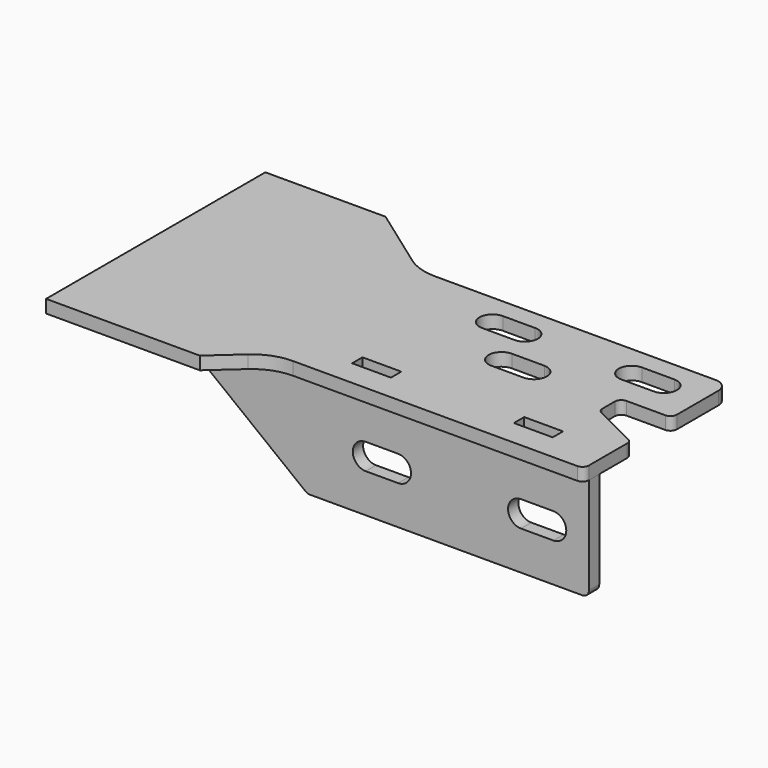
from build123d import *

# Parameters (mm, degrees)
F0_W     = 19.05
F0_H     = 6.35
F1_DEPTH = 6.35
F2_W     = 228.1926768713
F2_H     = 6.35
F3_DEPTH = 50.8
F5_DEPTH = 112.5108414421
F6_R     = 6.35
F7_R     = 3.175
F7_2_R   = 3.175


with BuildPart() as f1:
    # F0 (on Top) → F1 (new body)
    with BuildSketch(Plane.XY):
        with BuildLine():
            Line((76.2, 44.45), (-68.0401977532, 44.45))
            ThreePointArc((-68.0401977532, 44.45), (-75.8089619471, 45.6672312813), (-82.8331290705, 49.2022596142))
            Line((-82.8331290705, 49.2022596142), (-113.5858595371, 71.2348414421))
            Line((-113.5858595371, 71.2348414421), (-172.6087629795, 71.2348414421))
            Line((-172.6087629795, 71.2348414421), (-172.6087629795, -63.2538875401))
            Line((-172.6087629795, -63.2538875401), (-97.1746146679, -63.2538875401))
            Line((-97.1746146679, -63.2538875401), (-83.4364361492, -50.9375152033))
            ThreePointArc((-83.4364361492, -50.9375152033), (-75.5582355761, -46.1272565474), (-66.4812623426, -44.45))
            Line((-66.4812623426, -44.45), (76.2, -44.45))
            Line((76.2, -44.45), (76.2, -15.875))
            Line((76.2, -15.875), (50.8, -3.175))
            Line((50.8, -3.175), (50.8, 9.525))
            Line((50.8, 9.525), (76.2, 9.525))
            Line((76.2, 9.525), (76.2, 44.45))
        make_face()
        with Locations((-38.1, -28.575)):
            Rectangle(F0_W, F0_H, mode=Mode.SUBTRACT)
        with Locations((41.275, -28.575)):
            Rectangle(F0_W, F0_H, mode=Mode.SUBTRACT)
        with BuildLine():
            Line((-4.7625, 12.7), (3.175, 12.7))
            Line((3.175, 12.7), (11.1125, 12.7))
            ThreePointArc((11.1125, 12.7), (17.4625, 6.35), (11.1125, 0))
            Line((11.1125, 0), (3.175, 0))
            Line((3.175, 0), (-4.7625, 0))
            ThreePointArc((-4.7625, 0), (-11.1125, 6.35), (-4.7625, 12.7))
        make_face(mode=Mode.SUBTRACT)
        with BuildLine():
            Line((-26.9875, 34.925), (-19.05, 34.925))
            Line((-19.05, 34.925), (-11.1125, 34.925))
            ThreePointArc((-11.1125, 34.925), (-4.7625, 28.575), (-11.1125, 22.225))
            Line((-11.1125, 22.225), (-19.05, 22.225))
            Line((-19.05, 22.225), (-26.9875, 22.225))
            ThreePointArc((-26.9875, 22.225), (-33.3375, 28.575), (-26.9875, 34.925))
        make_face(mode=Mode.SUBTRACT)
        with BuildLine():
            ThreePointArc((57.15, 34.925), (61.6401280605, 33.0651280605), (63.5, 28.575))
            ThreePointArc((63.5, 28.575), (61.6401280605, 24.0848719395), (57.15, 22.225))
            Line((57.15, 22.225), (41.275, 22.225))
            ThreePointArc((41.275, 22.225), (34.925, 28.575), (41.275, 34.925))
            Line((41.275, 34.925), (57.15, 34.925))
        make_face(mode=Mode.SUBTRACT)
    extrude(amount=F1_DEPTH)

    # F6
    f6_edges = [f1.edges().sort_by_distance(p)[0] for p in [
        (76.2, 44.45, 3.175),
    ]]
    fillet(f6_edges, radius=F6_R)

    # F7
    f7_edges = [f1.edges().sort_by_distance(p)[0] for p in [
        (76.2, 9.525, 3.175),
        (76.2, -15.875, 3.175),
        (50.8, 9.525, 3.175),
        (50.8, -3.175, 3.175),
        (76.2, -44.45, 3.175),
    ]]
    fillet(f7_edges, radius=F7_R)


with BuildPart() as f3:
    # F2 (on face) → F3 (new body)
    with BuildSketch(Plane(origin=(0, 0, 0), x_dir=(1, 0, 0), z_dir=(0, 0, -1))):
        with Locations((-37.8963384356, 38.1)):
            Rectangle(F2_W, F2_H)
    extrude(amount=F3_DEPTH)

    # F4 (on face) → F5 (cut, through all)
    with BuildSketch(Plane.XZ.offset(41.275)):
        with BuildLine():
            ThreePointArc((-33.3375, -19.05), (-39.6875, -25.4), (-33.3375, -31.75))
            Line((-33.3375, -31.75), (-17.4625, -31.75))
            ThreePointArc((-17.4625, -31.75), (-11.1125, -25.4), (-17.4625, -19.05))
            Line((-17.4625, -19.05), (-33.3375, -19.05))
        make_face()
        with BuildLine():
            ThreePointArc((58.7375, -31.75), (65.0875, -25.4), (58.7375, -19.05))
            Line((58.7375, -19.05), (42.8625, -19.05))
            ThreePointArc((42.8625, -19.05), (36.5125, -25.4), (42.8625, -31.75))
            Line((42.8625, -31.75), (58.7375, -31.75))
        make_face()
        Polygon((-61.9125, -50.8), (-126.9806373638, 0), (-151.9926768713, 0), (-151.9926768713, -50.8), align=None)
    extrude(amount=-F5_DEPTH, mode=Mode.SUBTRACT)

    # F7#2
    f7_2_edges = [f3.edges().sort_by_distance(p)[0] for p in [
        (76.2, -38.1, -50.8),
        (-61.9125, -38.1, -50.8),
    ]]
    fillet(f7_2_edges, radius=F7_2_R)


solid = Compound([f1.part, f3.part])
